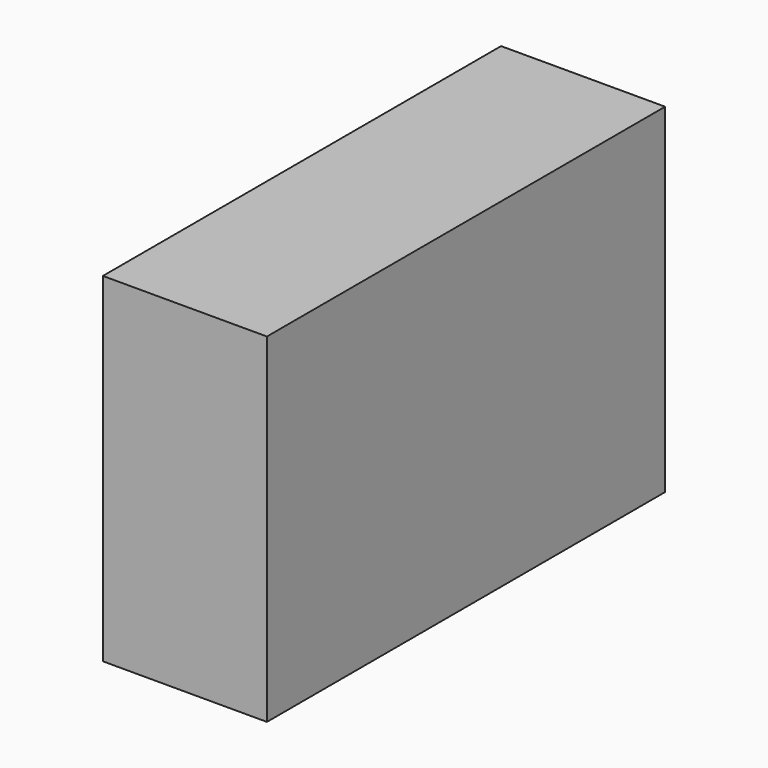
from build123d import *

# Parameters (mm, degrees)
F1_W     = 31.808121
F1_H     = 96.506107
F2_DEPTH = 65.786


with BuildPart() as f2:
    # F1 (on face) → F2 (new body)
    with BuildSketch(Plane.XY):
        with Locations((-11.361285, -2.378511)):
            Rectangle(F1_W, F1_H)
    extrude(amount=F2_DEPTH)


solid = f2.part
